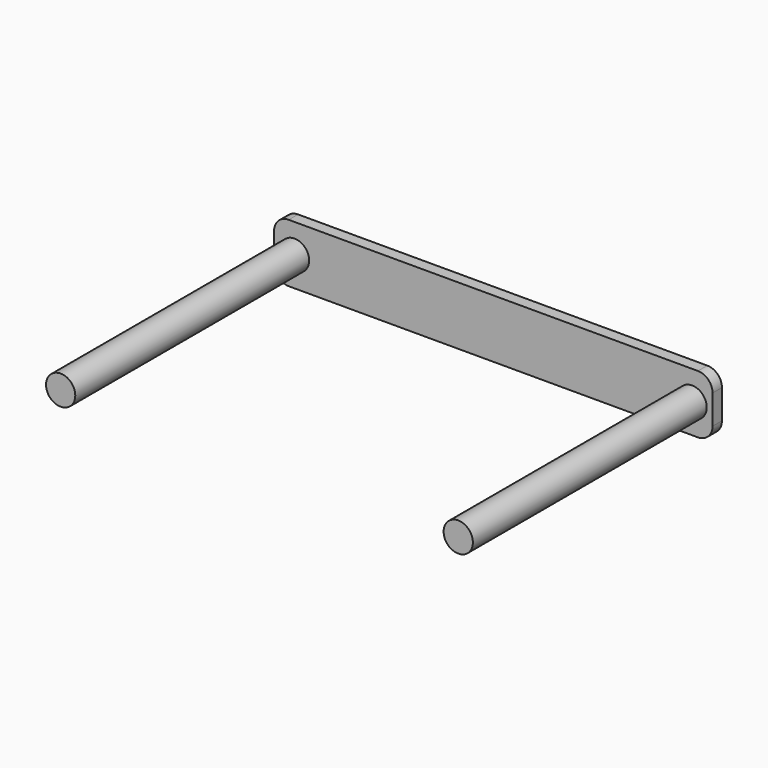
from build123d import *

# Parameters (mm, degrees)
F0_W     = 150
F0_H     = 20
F1_DEPTH = 4
F2_R     = 5
F3_DEPTH = 100
F4_R     = 5


with BuildPart() as f1:
    # F0 (on Front) → F1 (new body)
    with BuildSketch(Plane.XZ):
        with Locations((0.326128, -57.731088)):
            Rectangle(F0_W, F0_H)
    extrude(amount=F1_DEPTH)

    # F2 (on face) → F3 (join)
    with BuildSketch(Plane.XZ.offset(4)):
        with Locations((68.326128, -57.731088)):
            Circle(F2_R)
        with Locations((-67.673872, -57.731088)):
            Circle(F2_R)
    extrude(amount=F3_DEPTH)

    # F4
    f4_edges = [f1.edges().sort_by_distance(p)[0] for p in [
        (-74.673872, -2, -67.731088),
        (-74.673872, -2, -47.731088),
        (75.326128, -2, -67.731088),
        (75.326128, -2, -47.731088),
    ]]
    fillet(f4_edges, radius=F4_R)


solid = f1.part
